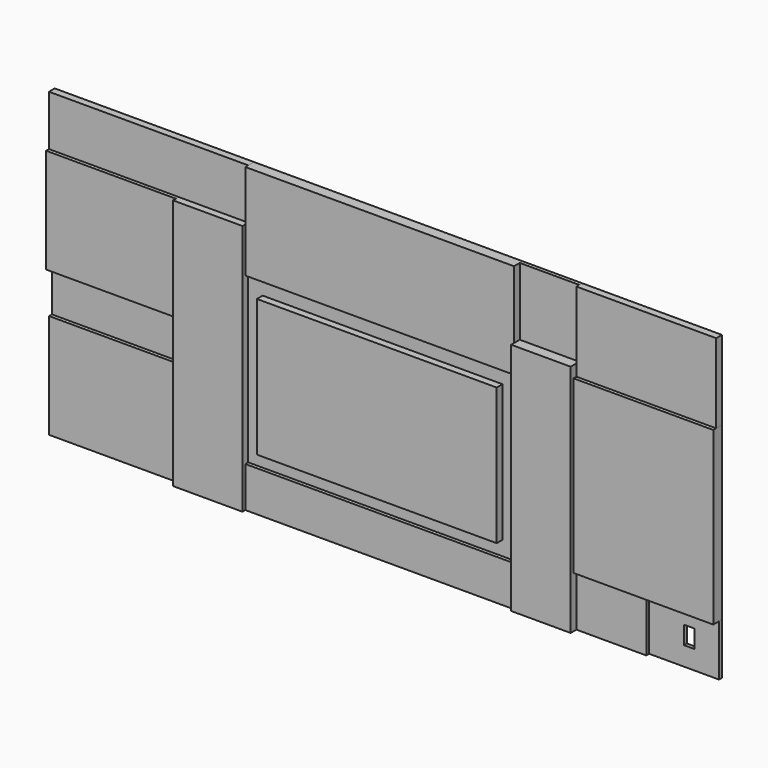
from build123d import *

# Parameters (mm, degrees)
F1_DEPTH  = 101.6
F0_W      = 914.4
F0_H      = 736.6
F2_DEPTH  = 76.2
F0_W_2    = 1892.3
F0_H_2    = 1168.4
F0_W_3    = 1689.1
F0_H_3    = 965.2
F3_DEPTH  = 50.8
F0_H_4    = 298.45
F4_DEPTH  = 25.4
F5_DEPTH  = 50.8
F6_DEPTH  = 50.8
F7_DEPTH  = 101.6
F8_DEPTH  = 76.2
F0_H_5    = 285.75
F9_DEPTH  = 76.2
F0_W_4    = 419.1
F0_H_6    = 476.25
F10_DEPTH = 25.4
F11_DEPTH = 101.6
F12_DEPTH = 50.8
F13_DEPTH = 76.2
F0_W_5    = 492.125
F0_H_7    = 361.95
F14_DEPTH = 50.8
F0_W_6    = 76.2
F0_H_8    = 127
F15_DEPTH = 25.4


with BuildPart() as f1:
    # F0 (on Front) → F1 (new body)
    with BuildSketch(Plane.XZ):
        Polygon((-1435.1, -1063.625), (-946.15, -1063.625), (-946.15, -777.875), (-946.15, 390.525), (-946.15, 708.025), (-1435.1, 708.025), (-1435.1, -28.575), (-1435.1, -327.025), align=None)
    extrude(amount=F1_DEPTH)


with BuildPart() as f2:
    # F0 (on Front) → F2 (new body)
    with BuildSketch(Plane.XZ):
        with Locations((-1892.3, 339.725)):
            Rectangle(F0_W, F0_H)
    extrude(amount=F2_DEPTH)


with BuildPart() as f3:
    # F0 (on Front) → F3 (new body)
    with BuildSketch(Plane.XZ):
        with Locations((0, -193.675)):
            Rectangle(F0_W_2, F0_H_2)
        with Locations((0, -193.675)):
            Rectangle(F0_W_3, F0_H_3, mode=Mode.SUBTRACT)
    extrude(amount=F3_DEPTH)


with BuildPart() as f4:
    # F0 (on Front) → F4 (new body)
    with BuildSketch(Plane.XZ):
        with Locations((-1892.3, -177.8)):
            Rectangle(F0_W, F0_H_4)
    extrude(amount=F4_DEPTH)


with BuildPart() as f5:
    # F0 (on Front) → F5 (new body)
    with BuildSketch(Plane.XZ):
        with Locations((-1892.3, -695.325)):
            Rectangle(F0_W, F0_H)
    extrude(amount=F5_DEPTH)


with BuildPart() as f6:
    # F0 (on Front) → F6 (new body)
    with BuildSketch(Plane.XZ):
        Polygon((-946.15, 708.025), (-946.15, 1063.625), (-2349.5, 1063.625), (-2349.5, 708.025), (-1435.1, 708.025), align=None)
    extrude(amount=F6_DEPTH)


with BuildPart() as f7:
    # F0 (on Front) → F7 (new body)
    with BuildSketch(Plane.XZ):
        with Locations((0, -193.675)):
            Rectangle(F0_W_3, F0_H_3)
    extrude(amount=F7_DEPTH)


with BuildPart() as f8:
    # F0 (on Front) → F8 (new body)
    with BuildSketch(Plane.XZ):
        Polygon((-946.15, 390.525), (946.15, 390.525), (946.15, 587.375), (946.15, 1063.625), (-946.15, 1063.625), (-946.15, 708.025), align=None)
    extrude(amount=F8_DEPTH)


with BuildPart() as f9:
    # F0 (on Front) → F9 (new body)
    with BuildSketch(Plane.XZ):
        with Locations((0, -920.75)):
            Rectangle(F0_W_2, F0_H_5)
    extrude(amount=F9_DEPTH)


with BuildPart() as f10:
    # F0 (on Front) → F10 (new body)
    with BuildSketch(Plane.XZ):
        with Locations((1155.7, 825.5)):
            Rectangle(F0_W_4, F0_H_6)
    extrude(amount=F10_DEPTH)


with BuildPart() as f11:
    # F0 (on Front) → F11 (new body)
    with BuildSketch(Plane.XZ):
        Polygon((946.15, -1063.625), (1365.25, -1063.625), (1365.25, -701.675), (1365.25, 504.825), (1365.25, 587.375), (946.15, 587.375), (946.15, 390.525), (946.15, -777.875), align=None)
    extrude(amount=F11_DEPTH)


with BuildPart() as f12:
    # F0 (on Front) → F12 (new body)
    with BuildSketch(Plane.XZ):
        Polygon((1365.25, 504.825), (2349.5, 504.825), (2349.5, 1063.625), (1365.25, 1063.625), (1365.25, 587.375), align=None)
    extrude(amount=F12_DEPTH)


with BuildPart() as f13:
    # F0 (on Front) → F13 (new body)
    with BuildSketch(Plane.XZ):
        Polygon((1857.375, -701.675), (2349.5, -701.675), (2349.5, 504.825), (1365.25, 504.825), (1365.25, -701.675), align=None)
    extrude(amount=F13_DEPTH)


with BuildPart() as f14:
    # F0 (on Front) → F14 (new body)
    with BuildSketch(Plane.XZ):
        with Locations((1611.3125, -882.65)):
            Rectangle(F0_W_5, F0_H_7)
    extrude(amount=F14_DEPTH)


with BuildPart() as f15:
    # F0 (on Front) → F15 (new body)
    with BuildSketch(Plane.XZ):
        with Locations((2103.4375, -882.65)):
            Rectangle(F0_W_5, F0_H_7)
        with Locations((2139.95, -866.775)):
            Rectangle(F0_W_6, F0_H_8, mode=Mode.SUBTRACT)
    extrude(amount=F15_DEPTH)


solid = Compound([f1.part, f2.part, f3.part, f4.part, f5.part, f6.part, f7.part, f8.part, f9.part, f10.part, f11.part, f12.part, f13.part, f14.part, f15.part])
